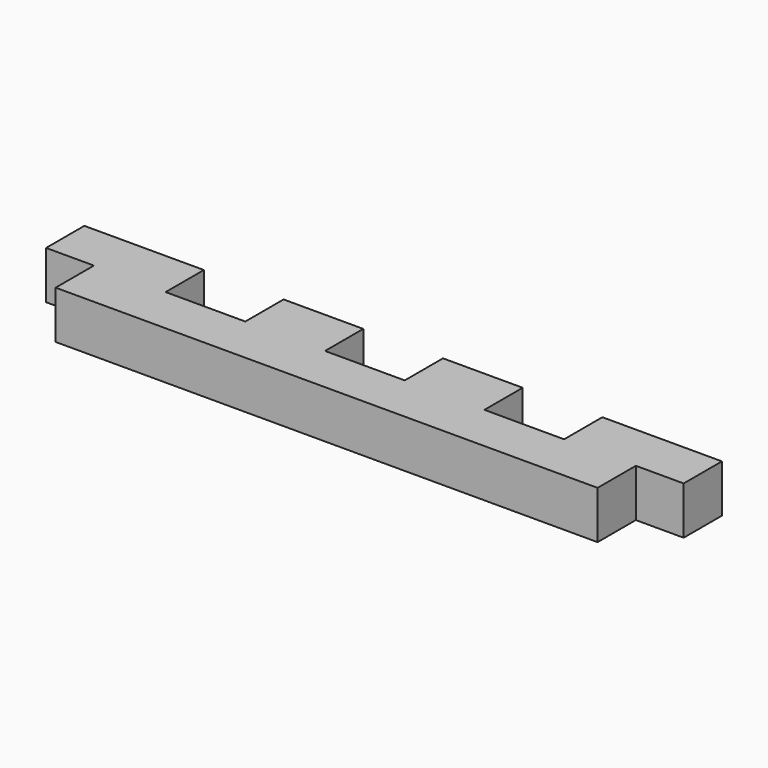
from build123d import *

# Parameters (mm, degrees)
F1_DEPTH = 7.62


with BuildPart() as f1:
    # F0 (on Top) → F1 (new body)
    with BuildSketch(Plane.XY):
        Polygon((19.05, 0), (0, 0), (0, -7.62), (7.62, -7.62), (7.62, -15.24), (93.98, -15.24), (93.98, -7.62), (101.6, -7.62), (101.6, 0), (82.55, 0), (82.55, -7.62), (69.85, -7.62), (69.85, 0), (57.15, 0), (57.15, -7.62), (44.45, -7.62), (44.45, 0), (31.75, 0), (31.75, -7.62), (19.05, -7.62), align=None)
    extrude(amount=F1_DEPTH)


solid = f1.part
